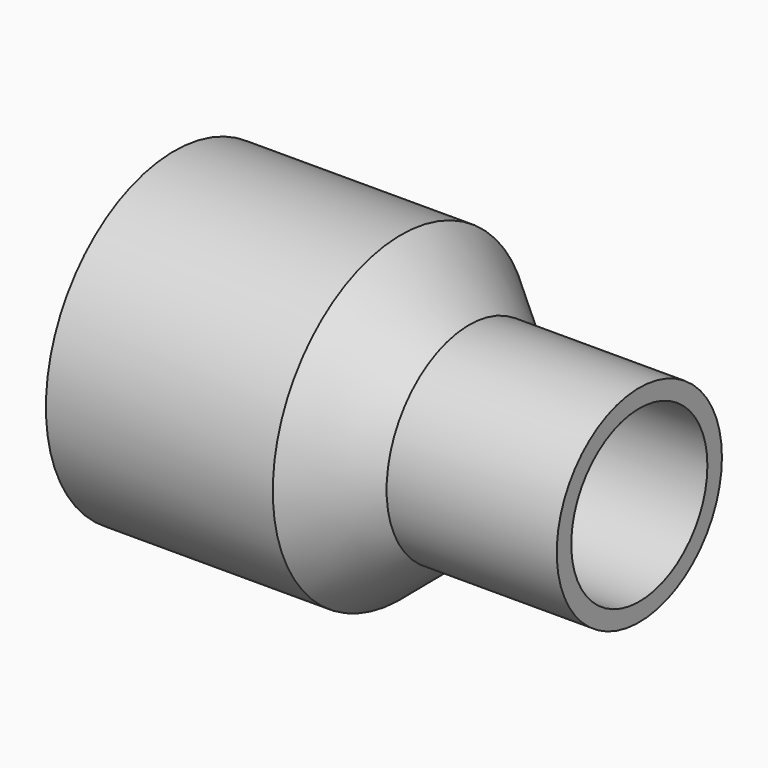
from build123d import *

# Parameters (mm, degrees)
F0_R      = 8.9789
F1_DEPTH  = 12.7
F3_R      = 5.7785
F4_DEPTH  = 9.525
F1_FACE_R = 8.9789
F4_FACE_R = 5.7785
F6_T      = -1.016


with BuildPart() as f1:
    # F0 (on Right) → F1 (new body)
    with BuildSketch(Plane.YZ):
        Circle(F0_R)
    extrude(amount=-F1_DEPTH)



with BuildPart() as f4:
    # F3 (on offset) → F4 (new body)
    with BuildSketch(Plane.YZ.offset(3.81)):
        Circle(F3_R)
    extrude(amount=F4_DEPTH)


with BuildPart() as f1_1:
    add(f1.part)

    add(f4.part)  # F5 merges F4
    # F1_face (on face) → F5 section 0
    with BuildSketch(Plane.YZ):
        Circle(F1_FACE_R)
    # F4_face (on face) → F5 section 1
    with BuildSketch(Plane(origin=(3.81, 0, 0), x_dir=(0, 1, 0), z_dir=(-1, 0, 0))):
        Circle(F4_FACE_R)
    loft()

    # F6
    f6_openings = [f1_1.faces().sort_by_distance(p)[0] for p in [
        (13.335, 0, 0),
        (-12.7, 0, 0),
    ]]
    offset(amount=F6_T, openings=f6_openings, kind=Kind.INTERSECTION)


solid = f1_1.part
